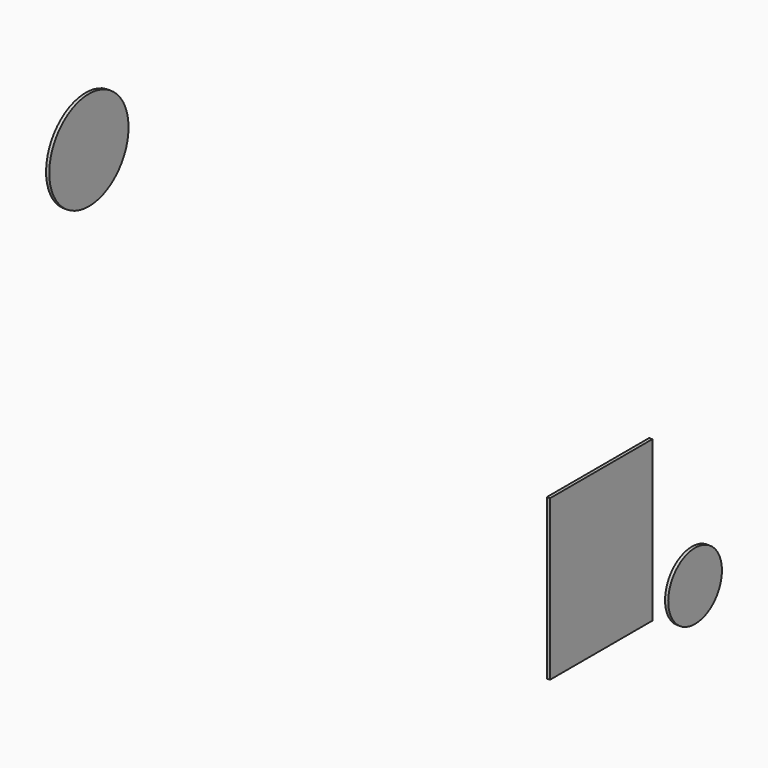
from build123d import *

# Parameters (mm, degrees)
CYLINDER010040_R     = 3.1
CYLINDER010040_DEPTH = 0.2
BOX051045_W          = 0.2
BOX051045_H          = 8
BOX051045_DEPTH      = 10
CYLINDER010036_R     = 2.1
CYLINDER010036_DEPTH = 0.2


with BuildPart() as cylinder010040:
    # Cylinder010040 → Cylinder010040 (new body)
    with BuildSketch(Plane(origin=(-3.53, 35.91, 36.32), x_dir=(0, 0, -1), z_dir=(1, 0, 0))):
        Circle(CYLINDER010040_R)
    extrude(amount=CYLINDER010040_DEPTH)


with BuildPart() as box051045:
    # Box051045 → Box051045 (new body)
    with BuildSketch(Plane(origin=(28.29, 32.2, 19), x_dir=(1, 0, 0), z_dir=(0, 0, 1))):
        with Locations((0.1, 4)):
            Rectangle(BOX051045_W, BOX051045_H)
    extrude(amount=BOX051045_DEPTH)


with BuildPart() as print_supporter:
    # Cylinder010036 → Cylinder010036 (new body)
    with BuildSketch(Plane(origin=(34.59, 35.67, 24.81), x_dir=(0, 0, -1), z_dir=(1, 0, 0))):
        Circle(CYLINDER010036_R)
    extrude(amount=CYLINDER010036_DEPTH)

    # Fusion004006005010017004019022003002026: union Cylinder010040, Box051045
    add(cylinder010040.part)
    add(box051045.part)


solid = print_supporter.part
